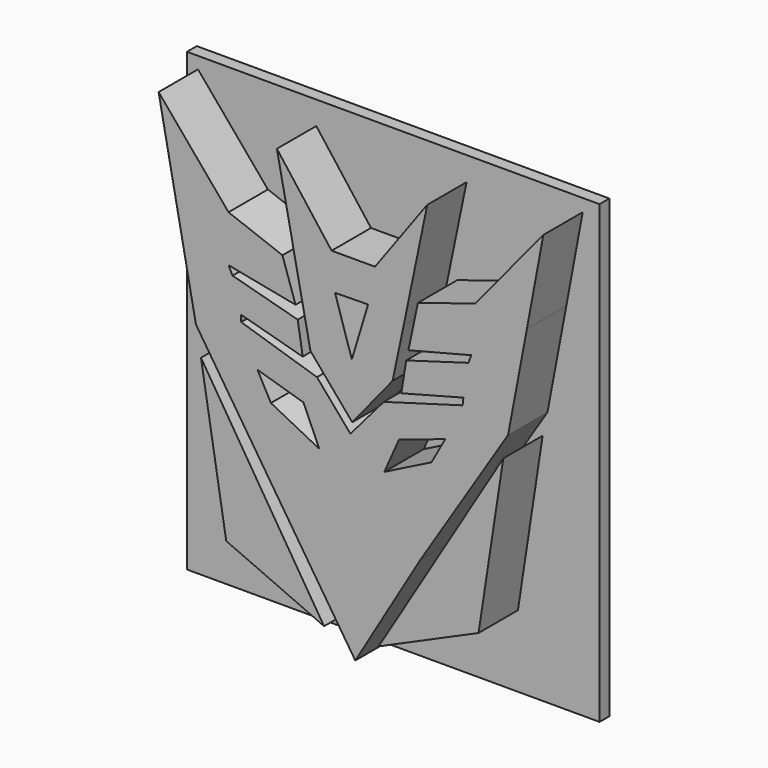
from build123d import *

# Parameters (mm, degrees)
F1_DEPTH = 12.7
F2_W     = 85.190505
F2_H     = 94.112482
F3_DEPTH = 2.54


with BuildPart() as f1:
    # F0 (on Front) → F1 (new body)
    with BuildSketch(Plane.XZ):
        Polygon((-26.168685, 39.40342), (-40.606581, 56.54842), (-32.904118, 16.803293), (0, -33.578947), (13.393682, -10.970265), (31.555258, 17.679319), (35.435874, 38.236614), (38.831536, 56.415514), (32.796081, 49.096931), (24.765465, 39.359018), (12.933947, 35.643551), (12.595559, 34.064408), (10.978816, 26.394278), (23.950361, 29.702961), (23.349157, 28.123537), (10.512818, 24.392776), (9.506783, 18.088298), (22.316949, 21.4641), (22.160457, 20.010939), (5.885062, 15.35216), (-1.000682, 7.312555), (-7.905515, 15.35216), (-23.554932, 20.270547), (-23.554932, 21.611927), (-10.856547, 18.124342), (-11.884938, 24.518248), (-25.343437, 28.139969), (-26.168685, 29.778158), (-12.332369, 27.071053), (-15.039475, 35.192367), align=None)
        Polygon((-17.419951, 7.564777), (-20.203121, 12.707592), (-10.704039, 9.863917), (-7.436838, 2.482465), align=None, mode=Mode.SUBTRACT)
        Polygon((15.736081, 7.564777), (5.994984, 2.663976), (9.02017, 9.500895), (18.579757, 12.707592), align=None, mode=Mode.SUBTRACT)
        Polygon((25.454592, -20.294752), (30.559158, 13.097623), (4.823635, -29.440435), align=None)
        Polygon((-6.448951, -29.440435), (-31.855352, 11.097572), (-26.654527, -20.507442), align=None)
        Polygon((-9.260707, 19.690217), (-0.629485, 9.528996), (7.714401, 19.776199), (10.00874, 30.660972), (14.855158, 54.08331), (4.069159, 39.328877), (-4.885254, 39.328877), (-16.180027, 54.185063), align=None)
        Polygon((2.644593, 32.002538), (-0.713312, 20.911274), (-4.172971, 31.900782), align=None, mode=Mode.SUBTRACT)
    extrude(amount=F1_DEPTH)


with BuildPart() as f3:
    # F2 (on Front) → F3 (new body)
    with BuildSketch(Plane.XZ):
        with Locations((-0.287805, 11.943938)):
            Rectangle(F2_W, F2_H)
    extrude(amount=F3_DEPTH)


solid = Compound([f1.part, f3.part])
